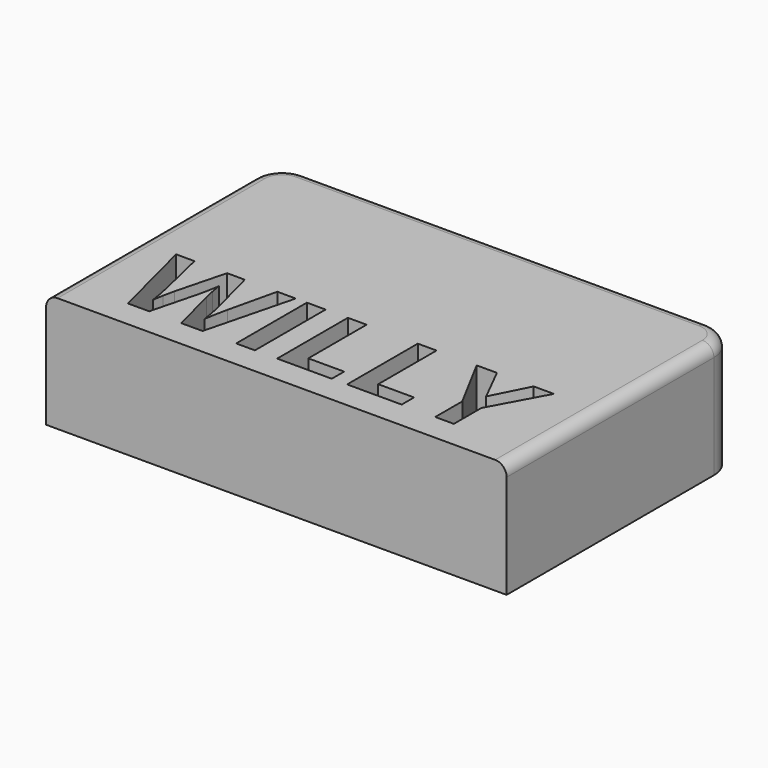
from build123d import *

# Parameters (mm, degrees)
F0_W     = 3.2558272286
F0_H     = 15.3517797806
F1_DEPTH = 20
F2_R     = 2


with BuildPart() as f1:
    # F0 (on Top) → F1 (new body)
    with BuildSketch(Plane.XY):
        with BuildLine():
            Line((-40, -25), (40, -25))
            Line((40, -25), (40, 20))
            ThreePointArc((40, 20), (38.5355339059, 23.5355339059), (35, 25))
            Line((35, 25), (-35, 25))
            ThreePointArc((-35, 25), (-38.5355339059, 23.5355339059), (-40, 20))
            Line((-40, 20), (-40, -25))
        make_face()
        with BuildLine():
            Line((-12.7209101006, -4.8896298527), (-16.6285747722, -20.2414096333))
            Line((-16.6285747722, -20.2414096333), (-20.3346402347, -20.2414096333))
            Line((-20.3346402347, -20.2414096333), (-22.4144720763, -12.1774412653))
            add(Edge.make_bspline(
                [(-22.4144720763, -12.1774412653), (-22.5287116282, -11.7473629523), (-22.8075905342, -10.3983282441)],
                knots=[0, 0, 0, 1, 1, 1], degree=2))
            add(Edge.make_bspline(
                [(-22.8075905342, -10.3983282441), (-23.0864694403, -9.0492935358), (-23.1267892821, -8.5856153547)],
                knots=[0, 0, 0, 1, 1, 1], degree=2))
            add(Edge.make_bspline(
                [(-23.1267892821, -8.5856153547), (-23.1906290317, -9.1534531273), (-23.4426280432, -10.4084082045)],
                knots=[0, 0, 0, 1, 1, 1], degree=2))
            add(Edge.make_bspline(
                [(-23.4426280432, -10.4084082045), (-23.6946270547, -11.6633632818), (-23.8323865143, -12.1976011862)],
                knots=[0, 0, 0, 1, 1, 1], degree=2))
            Line((-23.8323865143, -12.1976011862), (-25.8987784087, -20.2414096333))
            Line((-25.8987784087, -20.2414096333), (-29.5947639107, -20.2414096333))
            Line((-29.5947639107, -20.2414096333), (-33.5125085428, -4.8896298527))
            Line((-33.5125085428, -4.8896298527), (-30.3104411033, -4.8896298527))
            Line((-30.3104411033, -4.8896298527), (-28.3448488136, -13.2694369818))
            add(Edge.make_bspline(
                [(-28.3448488136, -13.2694369818), (-27.8307708302, -15.5911878744), (-27.6022917264, -17.2913412053)],
                knots=[0, 0, 0, 1, 1, 1], degree=2))
            add(Edge.make_bspline(
                [(-27.6022917264, -17.2913412053), (-27.5384519768, -16.6932635514), (-27.3116528665, -15.4383084741)],
                knots=[0, 0, 0, 1, 1, 1], degree=2))
            add(Edge.make_bspline(
                [(-27.3116528665, -15.4383084741), (-27.0848537561, -14.1833533968), (-26.8866145337, -13.4911961119)],
                knots=[0, 0, 0, 1, 1, 1], degree=2))
            Line((-26.8866145337, -13.4911961119), (-24.6488633116, -4.8896298527))
            Line((-24.6488633116, -4.8896298527), (-21.5744753713, -4.8896298527))
            Line((-21.5744753713, -4.8896298527), (-19.3367241492, -13.4911961119))
            add(Edge.make_bspline(
                [(-19.3367241492, -13.4911961119), (-19.1888847291, -14.0657538581), (-18.9688055924, -15.253509199)],
                knots=[0, 0, 0, 1, 1, 1], degree=2))
            add(Edge.make_bspline(
                [(-18.9688055924, -15.253509199), (-18.7487264557, -16.4412645399), (-18.6344869038, -17.2913412053)],
                knots=[0, 0, 0, 1, 1, 1], degree=2))
            add(Edge.make_bspline(
                [(-18.6344869038, -17.2913412053), (-18.5303273124, -16.4715044213), (-18.2984882218, -15.2484692188)],
                knots=[0, 0, 0, 1, 1, 1], degree=2))
            add(Edge.make_bspline(
                [(-18.2984882218, -15.2484692188), (-18.0666491312, -14.0254340163), (-17.8784898693, -13.2694369818)],
                knots=[0, 0, 0, 1, 1, 1], degree=2))
            Line((-17.8784898693, -13.2694369818), (-15.9263375269, -4.8896298527))
            Line((-15.9263375269, -4.8896298527), (-12.7209101006, -4.8896298527))
        make_face(mode=Mode.SUBTRACT)
        with Locations((-9.1610040648, -12.565519743)):
            Rectangle(F0_W, F0_H, mode=Mode.SUBTRACT)
        Polygon((5.8127771986, -20.2414096333), (-3.6691056075, -20.2414096333), (-3.6691056075, -4.8896298527), (-0.4132783789, -4.8896298527), (-0.4132783789, -17.5534201773), (5.8127771986, -17.5534201773), align=None, mode=Mode.SUBTRACT)
        Polygon((17.9624895398, -20.2414096333), (8.4806067337, -20.2414096333), (8.4806067337, -4.8896298527), (11.7364339623, -4.8896298527), (11.7364339623, -17.5534201773), (17.9624895398, -17.5534201773), align=None, mode=Mode.SUBTRACT)
        Polygon((22.2263128144, -4.8896298527), (25.4082203329, -11.2097650611), (28.6102877724, -4.8896298527), (32.1181140125, -4.8896298527), (27.0243739934, -14.2673530673), (27.0243739934, -20.2414096333), (23.7920666725, -20.2414096333), (23.7920666725, -14.3715126587), (18.6983266534, -4.8896298527), align=None, mode=Mode.SUBTRACT)
    extrude(amount=F1_DEPTH)

    # F2
    f2_edges = [f1.edges().sort_by_distance(p)[0] for p in [
        (-40, -2.5, 20),
    ]]
    fillet(f2_edges, radius=F2_R)


solid = f1.part
